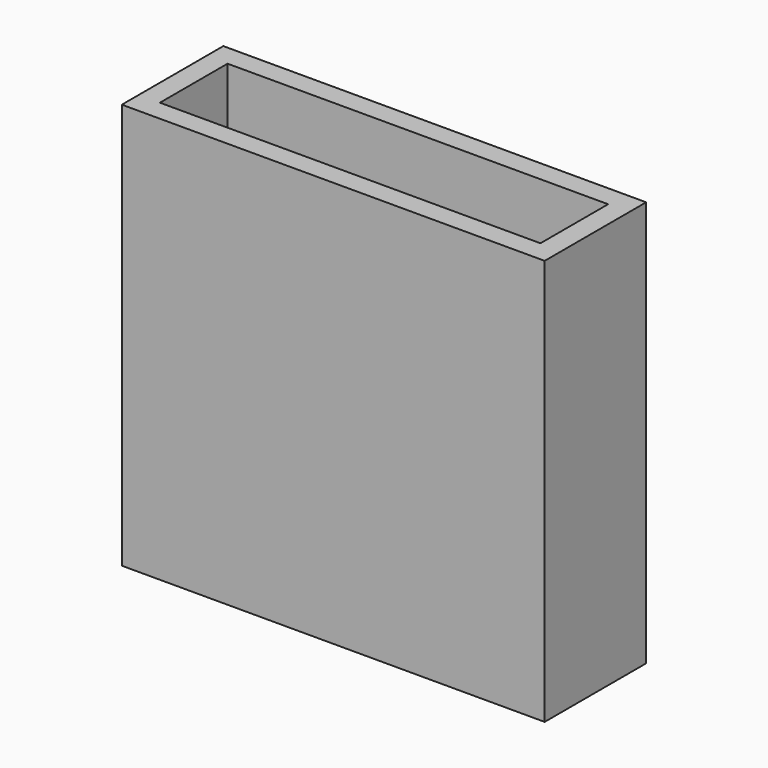
from build123d import *

# Parameters (mm, degrees)
F0_W     = 50
F0_H     = 15
F0_W_2   = 5.1
F0_H_2   = 7
F1_DEPTH = 48
F2_T     = -2.5


with BuildPart() as f1:
    # F0 (on Top) → F1 (new body)
    with BuildSketch(Plane.XY):
        Rectangle(F0_W, F0_H)
        with Locations((-15.45, 0)):
            Rectangle(F0_W_2, F0_H_2, mode=Mode.SUBTRACT)
        with Locations((-6.45, 0)):
            Rectangle(F0_W_2, F0_H_2, mode=Mode.SUBTRACT)
        with Locations((6.45, 0)):
            Rectangle(F0_W_2, F0_H_2, mode=Mode.SUBTRACT)
        with Locations((15.45, 0)):
            Rectangle(F0_W_2, F0_H_2, mode=Mode.SUBTRACT)
    extrude(amount=F1_DEPTH)

    # F2
    f2_openings = [f1.faces().sort_by_distance(p)[0] for p in [
        (0, 0, 48),
        (-9, 0, 24),
        (-3.9, 0, 24),
        (-6.45, -3.5, 24),
        (-15.45, -3.5, 24),
        (6.45, -3.5, 24),
        (15.45, -3.5, 24),
        (12.9, 0, 24),
        (3.9, 0, 24),
        (-18, 0, 24),
        (-15.45, 3.5, 24),
        (-6.45, 3.5, 24),
        (6.45, 3.5, 24),
        (15.45, 3.5, 24),
        (18, 0, 24),
        (9, 0, 24),
        (-12.9, 0, 24),
    ]]
    offset(amount=F2_T, openings=f2_openings)


solid = f1.part
